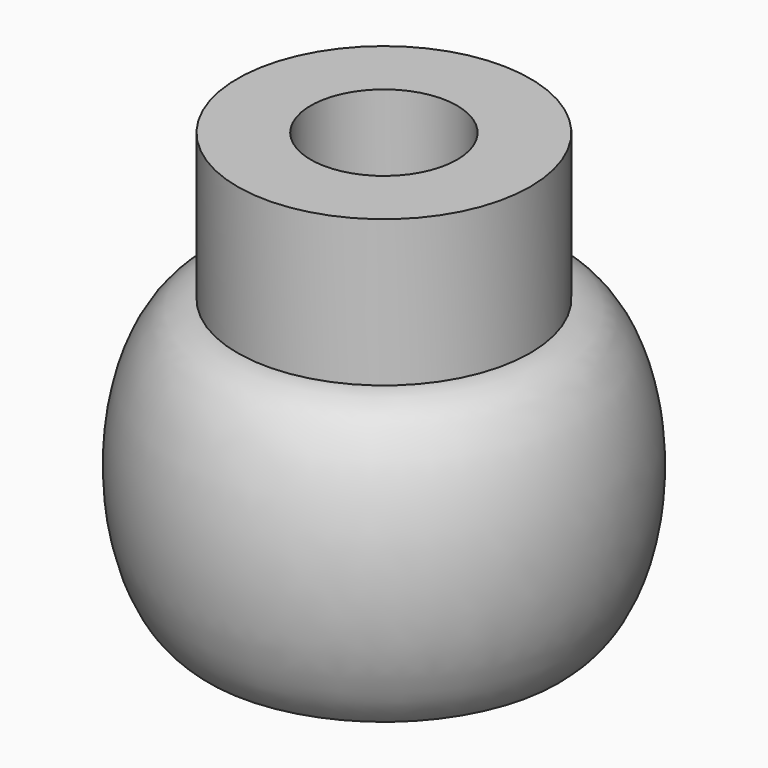
from build123d import *


with BuildPart() as f1:
    # F0 (on Front) → F1 (revolve)
    with BuildSketch(Plane.XZ):
        with BuildLine():
            Line((12.7, 0), (0, 0))
            Line((0, 0), (0, -10.420766383))
            ThreePointArc((0, -10.420766383), (10.8993419204, -10.9100704278), (19.4608935292, -17.6728292433))
            ThreePointArc((19.4608935292, -17.6728292433), (24.1495407715, -21.9137175646), (30.282663525, -23.4477814506))
            add(Edge.make_bspline(
                [(30.282663525, -23.4477814506), (39.8947702797, -15.4414480758), (37.8535818762, 4.97927674), (35.8123934726, 25.4000015557), (25.4, 25.4000015557)],
                knots=[3.5362172818, 3.5362172818, 3.5362172818, 4.9097012945, 4.9097012945, 6.2831853072, 6.2831853072, 6.2831853072], degree=2, weights=[1, 0.7733157522, 1, 0.7733157522, 1]))
            Line((25.4, 25.4000015557), (25.4, 50.8))
            Line((25.4, 50.8), (12.7, 50.8))
            Line((12.7, 50.8), (12.7, 0))
        make_face()
    revolve(axis=Axis((0, 0, -5.2103831915), (0, 0, -1)))


solid = f1.part
